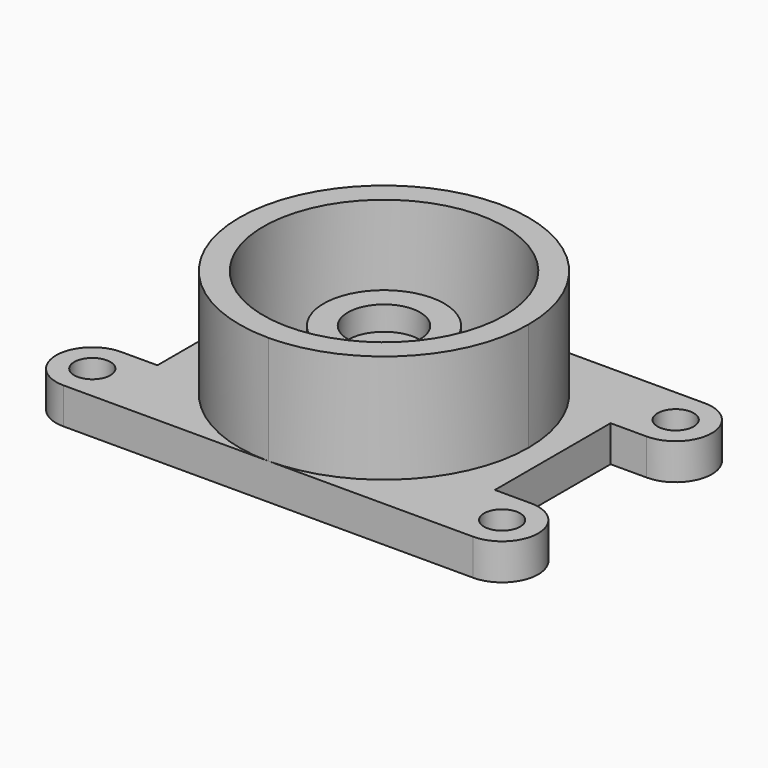
from build123d import *

# Parameters (mm, degrees)
F0_R     = 9.525
F0_R_2   = 63.5
F0_R_3   = 31.75
F0_R_4   = 19.05
F0_R_5   = 6.35
F1_DEPTH = 19.05
F2_DEPTH = 76.2
F3_DEPTH = 50.8
F4_DEPTH = 38.1


with BuildPart() as f1:
    # F0 (on Top) → F1 (new body)
    with BuildSketch(Plane.XY):
        with BuildLine():
            ThreePointArc((0, 76.2), (53.881537, 53.881537), (76.2, 0))
            Line((76.2, 0), (88.9, 0))
            Line((88.9, 0), (88.9, 38.1))
            Line((88.9, 38.1), (107.95, 38.1))
            ThreePointArc((107.95, 38.1), (127, 57.15), (107.95, 76.2))
            Line((107.95, 76.2), (0, 76.2))
        make_face()
        with Locations((107.95, 57.15)):
            Circle(F0_R, mode=Mode.SUBTRACT)
        with BuildLine():
            ThreePointArc((-76.2, 0), (-53.881537, 53.881537), (0, 76.2))
            Line((0, 76.2), (-107.95, 76.2))
            ThreePointArc((-107.95, 76.2), (-127, 57.15), (-107.95, 38.1))
            Line((-107.95, 38.1), (-88.9, 38.1))
            Line((-88.9, 38.1), (-88.9, 0))
            Line((-88.9, 0), (-76.2, 0))
        make_face()
        with Locations((-107.95, 57.15)):
            Circle(F0_R, mode=Mode.SUBTRACT)
        with BuildLine():
            Line((-107.95, -76.2), (0, -76.2))
            ThreePointArc((0, -76.2), (-53.881537, -53.881537), (-76.2, 0))
            Line((-76.2, 0), (-88.9, 0))
            Line((-88.9, 0), (-88.9, -38.1))
            Line((-88.9, -38.1), (-107.95, -38.1))
            ThreePointArc((-107.95, -38.1), (-127, -57.15), (-107.95, -76.2))
        make_face()
        with Locations((-107.95, -57.15)):
            Circle(F0_R, mode=Mode.SUBTRACT)
        with BuildLine():
            Line((88.9, 0), (76.2, 0))
            ThreePointArc((76.2, 0), (53.881537, -53.881537), (0, -76.2))
            Line((0, -76.2), (107.95, -76.2))
            ThreePointArc((107.95, -76.2), (127, -57.15), (107.95, -38.1))
            Line((107.95, -38.1), (88.9, -38.1))
            Line((88.9, -38.1), (88.9, 0))
        make_face()
        with Locations((107.95, -57.15)):
            Circle(F0_R, mode=Mode.SUBTRACT)
        with BuildLine():
            ThreePointArc((0, -76.2), (53.881537, -53.881537), (76.2, 0))
            ThreePointArc((76.2, 0), (53.881537, 53.881537), (0, 76.2))
            ThreePointArc((0, 76.2), (-53.881537, 53.881537), (-76.2, 0))
            ThreePointArc((-76.2, 0), (-53.881537, -53.881537), (0, -76.2))
        make_face()
        Circle(F0_R_2, mode=Mode.SUBTRACT)
        Circle(F0_R_2)
        Circle(F0_R_3, mode=Mode.SUBTRACT)
        Circle(F0_R_3)
        Circle(F0_R_4, mode=Mode.SUBTRACT)
        Circle(F0_R_4)
        Circle(F0_R_5, mode=Mode.SUBTRACT)
        Circle(F0_R_5)
    extrude(amount=F1_DEPTH)

    # F0 (on Top) → F2 (join)
    with BuildSketch(Plane.XY):
        with BuildLine():
            ThreePointArc((0, -76.2), (53.881537, -53.881537), (76.2, 0))
            ThreePointArc((76.2, 0), (53.881537, 53.881537), (0, 76.2))
            ThreePointArc((0, 76.2), (-53.881537, 53.881537), (-76.2, 0))
            ThreePointArc((-76.2, 0), (-53.881537, -53.881537), (0, -76.2))
        make_face()
        Circle(F0_R_2, mode=Mode.SUBTRACT)
    extrude(amount=F2_DEPTH)

    # F0 (on Top) → F3 (join)
    with BuildSketch(Plane.XY):
        Circle(F0_R_3)
        Circle(F0_R_4, mode=Mode.SUBTRACT)
    extrude(amount=F3_DEPTH)

    # F0 (on Top) → F4 (join)
    with BuildSketch(Plane.XY):
        Circle(F0_R_4)
        Circle(F0_R_5, mode=Mode.SUBTRACT)
    extrude(amount=F4_DEPTH)


solid = f1.part
